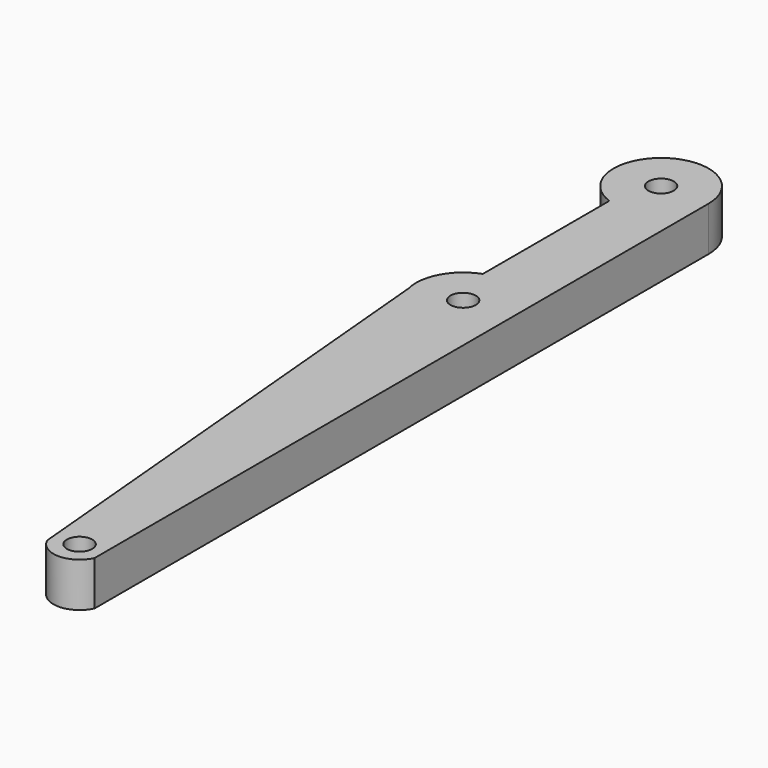
from build123d import *

# Parameters (mm, degrees)
F0_R     = 2
F1_DEPTH = 7
F2_D     = 4
F3_D     = 4


with BuildPart() as f1:
    # F0 (on Top) → F1 (new body)
    with BuildSketch(Plane.XY):
        with BuildLine():
            Line((7.5, -41), (7.5, 0))
            ThreePointArc((7.5, 0), (-4.3301270189, 6.123724357), (-2.5, -7.0710678119))
            Line((-2.5, -7.0710678119), (-2.5, -32.0124984811))
            ThreePointArc((-2.5, -32.0124984811), (-6.5397745633, -35.4838365332), (-7.2178157357, -40.7668495526))
            Line((-7.2178157357, -40.7668495526), (0, -121))
            ThreePointArc((0, -121), (3.75, -123.4084825035), (7.5, -121))
            Line((7.5, -121), (7.5, -41))
        make_face()
        with Locations((3.75, -119.2848719021)):
            Circle(F0_R, mode=Mode.SUBTRACT)
    extrude(amount=F1_DEPTH)

    # F2 (through all)
    with Locations(Plane(origin=(0, 0, 0), x_dir=(1, 0, 0), z_dir=(0, 0, -1))):
        with Locations((0, 0)):
            Hole(F2_D / 2)

    # F3 (through all)
    with Locations(Plane(origin=(0, 0, 0), x_dir=(1, 0, 0), z_dir=(0, 0, -1))):
        with Locations((0, 39.008192718)):
            Hole(F3_D / 2)


solid = f1.part
